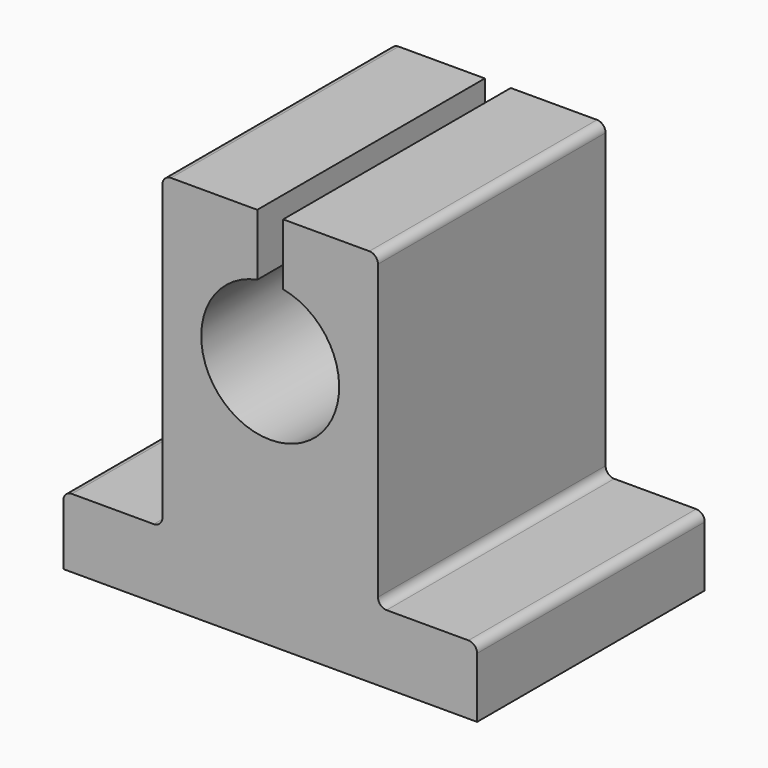
from build123d import *

# Parameters (mm, degrees)
F1_DEPTH = 8
F2_DEPTH = 25


with BuildPart() as f1:
    # F0 (on Front) → F1 (new body, symmetric)
    with BuildSketch(Plane.XZ):
        with BuildLine():
            Line((-24, -12.357661), (-24, -19.357661))
            Line((-24, -19.357661), (24, -19.357661))
            Line((24, -19.357661), (24, -12.357661))
            ThreePointArc((24, -12.357661), (23.707107, -11.650554), (23, -11.357661))
            Line((23, -11.357661), (13.5, -11.357661))
            ThreePointArc((13.5, -11.357661), (12.792893, -11.064767), (12.5, -10.357661))
            Line((12.5, -10.357661), (12.5, 23.642339))
            ThreePointArc((12.5, 23.642339), (12.207107, 24.349446), (11.5, 24.642339))
            Line((11.5, 24.642339), (1.5, 24.642339))
            Line((1.5, 24.642339), (1.5, 17.500456))
            ThreePointArc((1.5, 17.500456), (0, 1.642339), (-1.5, 17.500456))
            Line((-1.5, 17.500456), (-1.5, 24.642339))
            Line((-1.5, 24.642339), (-11.5, 24.642339))
            ThreePointArc((-11.5, 24.642339), (-12.207107, 24.349446), (-12.5, 23.642339))
            Line((-12.5, 23.642339), (-12.5, -10.357661))
            ThreePointArc((-12.5, -10.357661), (-12.792893, -11.064767), (-13.5, -11.357661))
            Line((-13.5, -11.357661), (-23, -11.357661))
            ThreePointArc((-23, -11.357661), (-23.707107, -11.650554), (-24, -12.357661))
        make_face()
    extrude(amount=F1_DEPTH, both=True)

    # F0 (on Front) → F2 (join)
    with BuildSketch(Plane.XZ):
        with BuildLine():
            Line((-24, -12.357661), (-24, -19.357661))
            Line((-24, -19.357661), (24, -19.357661))
            Line((24, -19.357661), (24, -12.357661))
            ThreePointArc((24, -12.357661), (23.707107, -11.650554), (23, -11.357661))
            Line((23, -11.357661), (13.5, -11.357661))
            ThreePointArc((13.5, -11.357661), (12.792893, -11.064767), (12.5, -10.357661))
            Line((12.5, -10.357661), (12.5, 23.642339))
            ThreePointArc((12.5, 23.642339), (12.207107, 24.349446), (11.5, 24.642339))
            Line((11.5, 24.642339), (1.5, 24.642339))
            Line((1.5, 24.642339), (1.5, 17.500456))
            ThreePointArc((1.5, 17.500456), (0, 1.642339), (-1.5, 17.500456))
            Line((-1.5, 17.500456), (-1.5, 24.642339))
            Line((-1.5, 24.642339), (-11.5, 24.642339))
            ThreePointArc((-11.5, 24.642339), (-12.207107, 24.349446), (-12.5, 23.642339))
            Line((-12.5, 23.642339), (-12.5, -10.357661))
            ThreePointArc((-12.5, -10.357661), (-12.792893, -11.064767), (-13.5, -11.357661))
            Line((-13.5, -11.357661), (-23, -11.357661))
            ThreePointArc((-23, -11.357661), (-23.707107, -11.650554), (-24, -12.357661))
        make_face()
    extrude(amount=F2_DEPTH)


solid = f1.part
